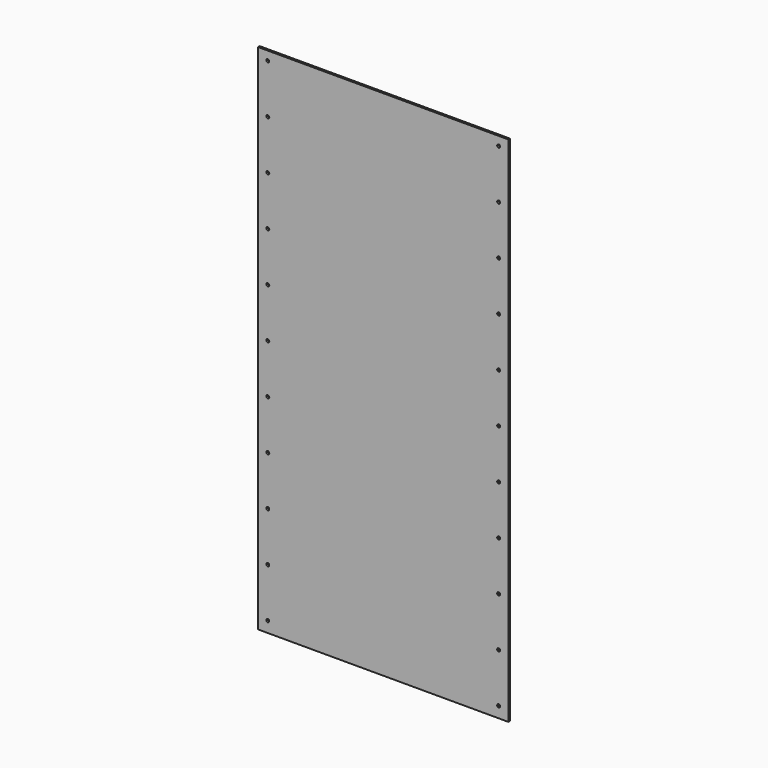
from build123d import *

# Parameters (mm, degrees)
F0_W     = 800.1
F0_H     = 1638.3
F0_R     = 4.7625
F1_DEPTH = 6.35
F2_DEPTH = 5.08


with BuildPart() as f1:
    # F0 (on Front) → F1 (new body)
    with BuildSketch(Plane.XZ):
        Rectangle(F0_W, F0_H)
        with Locations((-368.868083, -784.225)):
            Circle(F0_R, mode=Mode.SUBTRACT)
        with Locations((-368.868083, -626.745)):
            Circle(F0_R, mode=Mode.SUBTRACT)
        with Locations((-368.868083, -469.265)):
            Circle(F0_R, mode=Mode.SUBTRACT)
        with Locations((-368.868083, -311.785)):
            Circle(F0_R, mode=Mode.SUBTRACT)
        with Locations((-368.868083, -154.305)):
            Circle(F0_R, mode=Mode.SUBTRACT)
        with Locations((368.868083, -784.225)):
            Circle(F0_R, mode=Mode.SUBTRACT)
        with Locations((368.868083, -626.745)):
            Circle(F0_R, mode=Mode.SUBTRACT)
        with Locations((368.868083, -469.265)):
            Circle(F0_R, mode=Mode.SUBTRACT)
        with Locations((368.868083, -311.785)):
            Circle(F0_R, mode=Mode.SUBTRACT)
        with Locations((368.868083, -154.305)):
            Circle(F0_R, mode=Mode.SUBTRACT)
        with Locations((-368.868083, 3.175)):
            Circle(F0_R, mode=Mode.SUBTRACT)
        with Locations((-368.868083, 160.655)):
            Circle(F0_R, mode=Mode.SUBTRACT)
        with Locations((-368.868083, 318.135)):
            Circle(F0_R, mode=Mode.SUBTRACT)
        with Locations((-368.868083, 475.615)):
            Circle(F0_R, mode=Mode.SUBTRACT)
        with Locations((-368.868083, 633.095)):
            Circle(F0_R, mode=Mode.SUBTRACT)
        with Locations((-368.868083, 790.575)):
            Circle(F0_R, mode=Mode.SUBTRACT)
        with Locations((368.868083, 3.175)):
            Circle(F0_R, mode=Mode.SUBTRACT)
        with Locations((368.868083, 160.655)):
            Circle(F0_R, mode=Mode.SUBTRACT)
        with Locations((368.868083, 318.135)):
            Circle(F0_R, mode=Mode.SUBTRACT)
        with Locations((368.868083, 475.615)):
            Circle(F0_R, mode=Mode.SUBTRACT)
        with Locations((368.868083, 633.095)):
            Circle(F0_R, mode=Mode.SUBTRACT)
        with Locations((368.868083, 790.575)):
            Circle(F0_R, mode=Mode.SUBTRACT)
    extrude(amount=F1_DEPTH)


with BuildPart() as f2:
    # F0 (on Front) → F2 (new body)
    with BuildSketch(Plane.XZ):
        Rectangle(F0_W, F0_H)
        with Locations((-368.868083, -784.225)):
            Circle(F0_R, mode=Mode.SUBTRACT)
        with Locations((-368.868083, -626.745)):
            Circle(F0_R, mode=Mode.SUBTRACT)
        with Locations((-368.868083, -469.265)):
            Circle(F0_R, mode=Mode.SUBTRACT)
        with Locations((-368.868083, -311.785)):
            Circle(F0_R, mode=Mode.SUBTRACT)
        with Locations((-368.868083, -154.305)):
            Circle(F0_R, mode=Mode.SUBTRACT)
        with Locations((368.868083, -784.225)):
            Circle(F0_R, mode=Mode.SUBTRACT)
        with Locations((368.868083, -626.745)):
            Circle(F0_R, mode=Mode.SUBTRACT)
        with Locations((368.868083, -469.265)):
            Circle(F0_R, mode=Mode.SUBTRACT)
        with Locations((368.868083, -311.785)):
            Circle(F0_R, mode=Mode.SUBTRACT)
        with Locations((368.868083, -154.305)):
            Circle(F0_R, mode=Mode.SUBTRACT)
        with Locations((-368.868083, 3.175)):
            Circle(F0_R, mode=Mode.SUBTRACT)
        with Locations((-368.868083, 160.655)):
            Circle(F0_R, mode=Mode.SUBTRACT)
        with Locations((-368.868083, 318.135)):
            Circle(F0_R, mode=Mode.SUBTRACT)
        with Locations((-368.868083, 475.615)):
            Circle(F0_R, mode=Mode.SUBTRACT)
        with Locations((-368.868083, 633.095)):
            Circle(F0_R, mode=Mode.SUBTRACT)
        with Locations((-368.868083, 790.575)):
            Circle(F0_R, mode=Mode.SUBTRACT)
        with Locations((368.868083, 3.175)):
            Circle(F0_R, mode=Mode.SUBTRACT)
        with Locations((368.868083, 160.655)):
            Circle(F0_R, mode=Mode.SUBTRACT)
        with Locations((368.868083, 318.135)):
            Circle(F0_R, mode=Mode.SUBTRACT)
        with Locations((368.868083, 475.615)):
            Circle(F0_R, mode=Mode.SUBTRACT)
        with Locations((368.868083, 633.095)):
            Circle(F0_R, mode=Mode.SUBTRACT)
        with Locations((368.868083, 790.575)):
            Circle(F0_R, mode=Mode.SUBTRACT)
    extrude(amount=F2_DEPTH)


solid = Compound([f1.part, f2.part])
